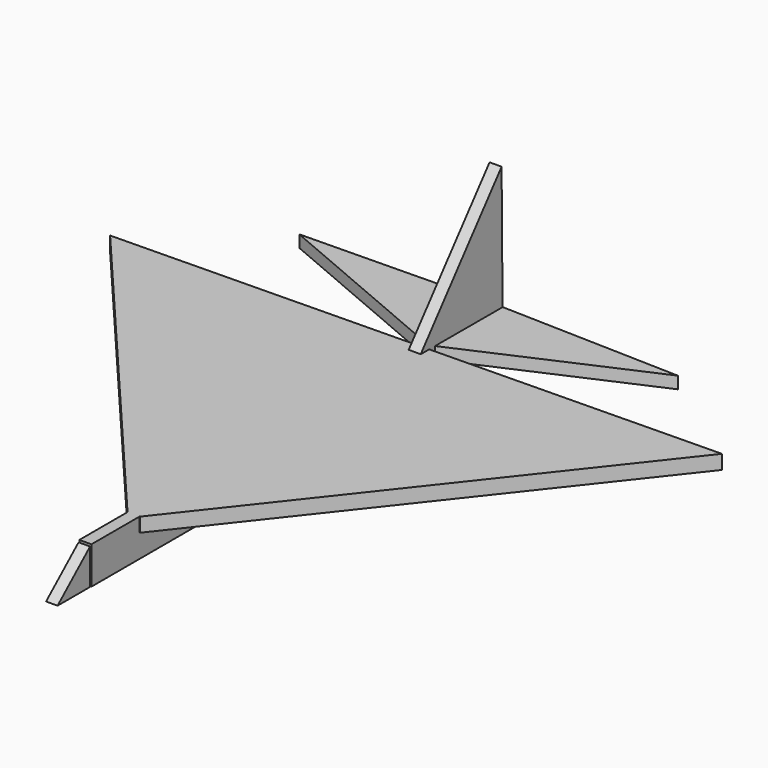
from build123d import *

# Parameters (mm, degrees)
F0_W      = 119.455494
F0_H      = 8.672412
F2_DEPTH  = 2.794
F3_DEPTH  = 2.667
F8_DEPTH  = 3.302
F9_DEPTH  = 2.794
F10_DEPTH = 2.794


with BuildPart() as f2:
    # F0 (on Right) → F2 (new body)
    with BuildSketch(Plane.YZ):
        with Locations((2.657678, 4.336206)):
            Rectangle(F0_W, F0_H)
    extrude(amount=F2_DEPTH)

    # F7 (on face) → F8 (join)
    with BuildSketch(Plane.XY.offset(8.672412)):
        Polygon((0, -43.076165), (2.856444, -43.076165), (69.93027, 42.195044), (-70.381574, 39.831895), align=None)
        Polygon((0, -43.076165), (2.856444, -43.076165), (69.93027, 42.195044), (-70.381574, 39.831895), align=None)
    extrude(amount=-F8_DEPTH)

    # F6 (on face) + F4 (on face) → F9 (join)
    with BuildSketch(Plane.XY.offset(8.672412)):
        Polygon((2.841048, 62.372476), (2.807627, 42.746466), (44.497889, 61.182428), align=None)
    with BuildSketch(Plane.XY.offset(8.672412)):
        Polygon((-43.864887, 61.656576), (0, 42.973131), (0, 62.385425), align=None)
    extrude(amount=-F9_DEPTH)

    # F5 (on face) → F10 (join)
    with BuildSketch(Plane.YZ.offset(2.794)):
        Polygon((62.105671, 37.487201), (38.606223, 8.672412), (62.385425, 8.672412), align=None)
    extrude(amount=-F10_DEPTH)


with BuildPart() as f3:
    # F1 (on Right) → F3 (new body)
    with BuildSketch(Plane.YZ):
        Polygon((-57.298489, 0), (-57.298489, 8.274693), (-66.738687, 0), align=None)
    extrude(amount=F3_DEPTH)


solid = Compound([f2.part, f3.part])
